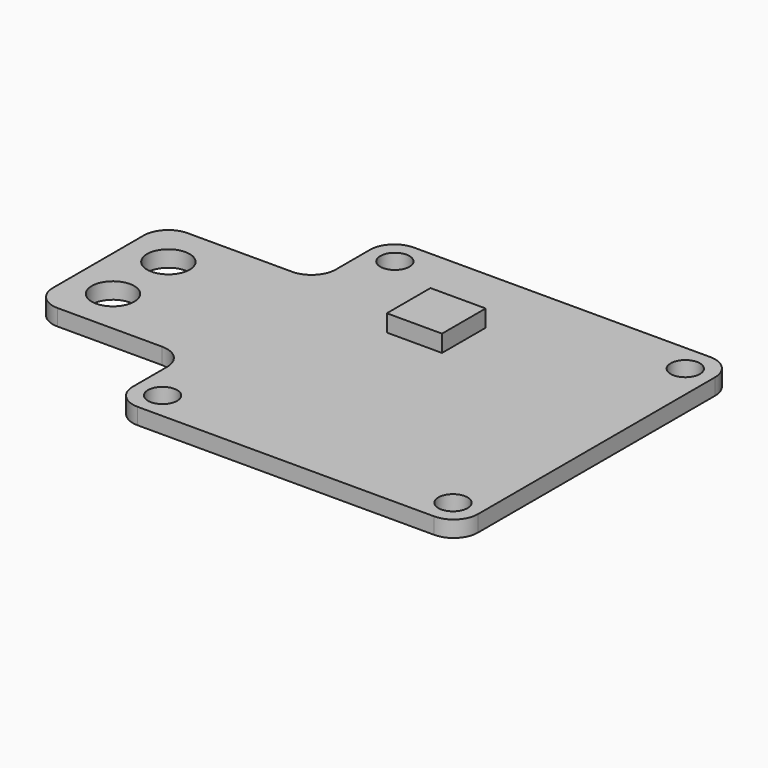
from build123d import *

# Parameters (mm, degrees)
F0_W     = 36.068
F0_H     = 9.5504
F0_R     = 1.524
F0_H_2   = 16.9672
F0_W_2   = 16.002
F0_R_2   = 2.2225
F1_DEPTH = 1.7018
F2_R     = 2.54
F3_R     = 2.54
F4_W     = 5.766904
F4_H     = 5.702107
F5_DEPTH = 1.778


with BuildPart() as f1:
    # F0 (on Top) → F1 (new body)
    with BuildSketch(Plane.XY):
        with Locations((0, -13.2588)):
            Rectangle(F0_W, F0_H)
        with Locations((-15.167683, -15.197962)):
            Circle(F0_R, mode=Mode.SUBTRACT)
        with Locations((15.185317, -15.197962)):
            Circle(F0_R, mode=Mode.SUBTRACT)
        Rectangle(F0_W, F0_H_2)
        with Locations((-26.035, 0)):
            Rectangle(F0_W_2, F0_H_2)
        with Locations((-29.552327, -3.693333)):
            Circle(F0_R_2, mode=Mode.SUBTRACT)
        with Locations((-29.552327, 3.545667)):
            Circle(F0_R_2, mode=Mode.SUBTRACT)
        with Locations((0, 13.2588)):
            Rectangle(F0_W, F0_H)
        with Locations((-15.167683, 15.155038)):
            Circle(F0_R, mode=Mode.SUBTRACT)
        with Locations((15.185317, 15.155038)):
            Circle(F0_R, mode=Mode.SUBTRACT)
    extrude(amount=F1_DEPTH)

    # F2
    f2_edges = [f1.edges().sort_by_distance(p)[0] for p in [
        (-18.034, 18.034, 0.8509),
        (-18.034, -18.034, 0.8509),
        (18.034, -18.034, 0.8509),
        (18.034, 18.034, 0.8509),
    ]]
    fillet(f2_edges, radius=F2_R)

    # F3
    f3_edges = [f1.edges().sort_by_distance(p)[0] for p in [
        (-18.034, 8.4836, 0.8509),
        (-18.034, -8.4836, 0.8509),
        (-34.036, -8.4836, 0.8509),
        (-34.036, 8.4836, 0.8509),
    ]]
    fillet(f3_edges, radius=F3_R)

    # F4 (on face) → F5 (join)
    with BuildSketch(Plane.XY.offset(1.7018)):
        with Locations((-4.934564, 7.768857)):
            Rectangle(F4_W, F4_H)
    extrude(amount=F5_DEPTH)


solid = f1.part
